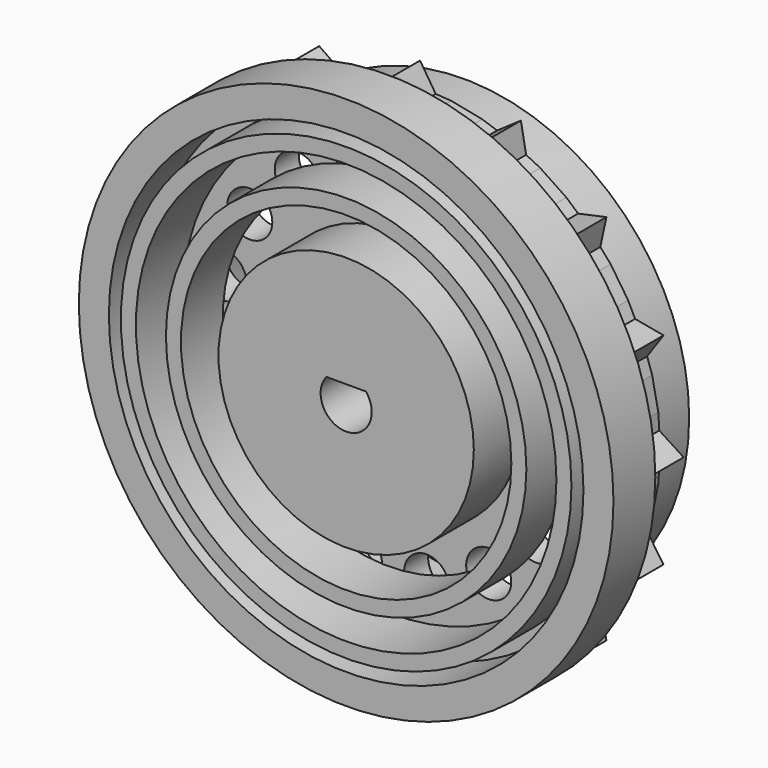
from build123d import *

# Parameters (mm, degrees)
F0_R     = 15
F1_DEPTH = 1.25
F0_R_2   = 14
F2_DEPTH = 4.9
F0_R_3   = 1.5
F0_R_4   = 8.5
F3_DEPTH = 1
F4_DEPTH = 4.9
F5_R     = 17.8
F5_R_2   = 15.8
F6_DEPTH = 3.48
F5_R_3   = 12
F5_R_4   = 11


with BuildPart() as f1:
    # F0 (on Front) → F1 (new body, symmetric)
    with BuildSketch(Plane.XZ):
        Polygon((4.1411047216, 15.4548132206), (2.0884190755, 15.863117782), (1.0442095378, 15.931558891), (0, 17.55), (-1.0442095378, 15.931558891), (-2.0884190755, 15.863117782), (-4.1411047216, 15.4548132206), (-5.1320198197, 15.1184428704), (-6.716094238, 16.2140857956), (-7.0614674589, 14.3192394904), (-8, 13.8564064606), (-9.7401828641, 12.6936534447), (-10.5269456816, 12.0036809718), (-12.4097240098, 12.4097240098), (-12.0036809718, 10.5269456816), (-12.6936534447, 9.7401828641), (-13.8564064606, 8), (-14.3192394904, 7.0614674589), (-16.2140857956, 6.716094238), (-15.1184428704, 5.1320198197), (-15.4548132206, 4.1411047216), (-15.863117782, 2.0884190755), (-15.931558891, 1.0442095378), (-17.55, 0), (-15.931558891, -1.0442095378), (-15.863117782, -2.0884190755), (-15.4548132206, -4.1411047216), (-15.1184428704, -5.1320198197), (-16.2140857956, -6.716094238), (-14.3192394904, -7.0614674589), (-13.8564064606, -8), (-12.6936534447, -9.7401828641), (-12.0036809718, -10.5269456816), (-12.4097240098, -12.4097240098), (-10.5269456816, -12.0036809718), (-9.7401828641, -12.6936534447), (-8, -13.8564064606), (-7.0614674589, -14.3192394904), (-6.716094238, -16.2140857956), (-5.1320198197, -15.1184428704), (-4.1411047216, -15.4548132206), (-2.0884190755, -15.863117782), (-1.0442095378, -15.931558891), (0, -17.55), (1.0442095378, -15.931558891), (2.0884190755, -15.863117782), (4.1411047216, -15.4548132206), (5.1320198197, -15.1184428704), (6.716094238, -16.2140857956), (7.0614674589, -14.3192394904), (8, -13.8564064606), (9.7401828641, -12.6936534447), (10.5269456816, -12.0036809718), (12.4097240098, -12.4097240098), (12.0036809718, -10.5269456816), (12.6936534447, -9.7401828641), (13.8564064606, -8), (14.3192394904, -7.0614674589), (16.2140857956, -6.716094238), (15.1184428704, -5.1320198197), (15.4548132206, -4.1411047216), (15.863117782, -2.0884190755), (15.931558891, -1.0442095378), (17.55, 0), (15.931558891, 1.0442095378), (15.863117782, 2.0884190755), (15.4548132206, 4.1411047216), (15.1184428704, 5.1320198197), (16.2140857956, 6.716094238), (14.3192394904, 7.0614674589), (13.8564064606, 8), (12.6936534447, 9.7401828641), (12.0036809718, 10.5269456816), (12.4097240098, 12.4097240098), (10.5269456816, 12.0036809718), (9.7401828641, 12.6936534447), (8, 13.8564064606), (7.0614674589, 14.3192394904), (6.716094238, 16.2140857956), (5.1320198197, 15.1184428704), align=None)
        Circle(F0_R, mode=Mode.SUBTRACT)
    extrude(amount=F1_DEPTH, both=True)

    # F0 (on Front) → F2 (join, symmetric)
    with BuildSketch(Plane.XZ):
        Circle(F0_R)
        Circle(F0_R_2, mode=Mode.SUBTRACT)
    extrude(amount=F2_DEPTH, both=True)

    # F0 (on Front) → F3 (join, symmetric)
    with BuildSketch(Plane.XZ):
        Circle(F0_R_2)
        with Locations((-6.3726130952, -9.5372894815)):
            Circle(F0_R_3, mode=Mode.SUBTRACT)
        with Locations((-2.237764133, -11.25)):
            Circle(F0_R_3, mode=Mode.SUBTRACT)
        with Locations((-9.5372894815, -6.3726130952)):
            Circle(F0_R_3, mode=Mode.SUBTRACT)
        with Locations((-11.25, -2.237764133)):
            Circle(F0_R_3, mode=Mode.SUBTRACT)
        with Locations((2.237764133, -11.25)):
            Circle(F0_R_3, mode=Mode.SUBTRACT)
        with Locations((6.3726130952, -9.5372894815)):
            Circle(F0_R_3, mode=Mode.SUBTRACT)
        with Locations((9.5372894815, -6.3726130952)):
            Circle(F0_R_3, mode=Mode.SUBTRACT)
        with Locations((11.25, -2.237764133)):
            Circle(F0_R_3, mode=Mode.SUBTRACT)
        with Locations((-11.25, 2.237764133)):
            Circle(F0_R_3, mode=Mode.SUBTRACT)
        with Locations((-9.5372894815, 6.3726130952)):
            Circle(F0_R_3, mode=Mode.SUBTRACT)
        with Locations((-6.3726130952, 9.5372894815)):
            Circle(F0_R_3, mode=Mode.SUBTRACT)
        with Locations((-2.237764133, 11.25)):
            Circle(F0_R_3, mode=Mode.SUBTRACT)
        Circle(F0_R_4, mode=Mode.SUBTRACT)
        with Locations((11.25, 2.237764133)):
            Circle(F0_R_3, mode=Mode.SUBTRACT)
        with Locations((9.5372894815, 6.3726130952)):
            Circle(F0_R_3, mode=Mode.SUBTRACT)
        with Locations((2.237764133, 11.25)):
            Circle(F0_R_3, mode=Mode.SUBTRACT)
        with Locations((6.3726130952, 9.5372894815)):
            Circle(F0_R_3, mode=Mode.SUBTRACT)
    extrude(amount=F3_DEPTH, both=True)

    # F0 (on Front) → F4 (join, symmetric)
    with BuildSketch(Plane.XZ):
        Circle(F0_R_4)
        with BuildLine():
            ThreePointArc((1.3128594746, 1.08), (0, -1.7), (-1.3128594746, 1.08))
            Line((-1.3128594746, 1.08), (1.3128594746, 1.08))
        make_face(mode=Mode.SUBTRACT)
    extrude(amount=F4_DEPTH, both=True)


with BuildPart() as f6:
    # F5 (on face) → F6 (new body)
    with BuildSketch(Plane.XZ.offset(4.9)):
        Circle(F5_R)
        Circle(F5_R_2, mode=Mode.SUBTRACT)
    extrude(amount=-F6_DEPTH)


with BuildPart() as f6b:
    # F5 (on face) → F6, piece 2 (new body)
    with BuildSketch(Plane.XZ.offset(4.9)):
        Circle(F5_R_3)
        Circle(F5_R_4, mode=Mode.SUBTRACT)
    extrude(amount=-F6_DEPTH)


solid = Compound([f1.part, f6.part, f6b.part])
